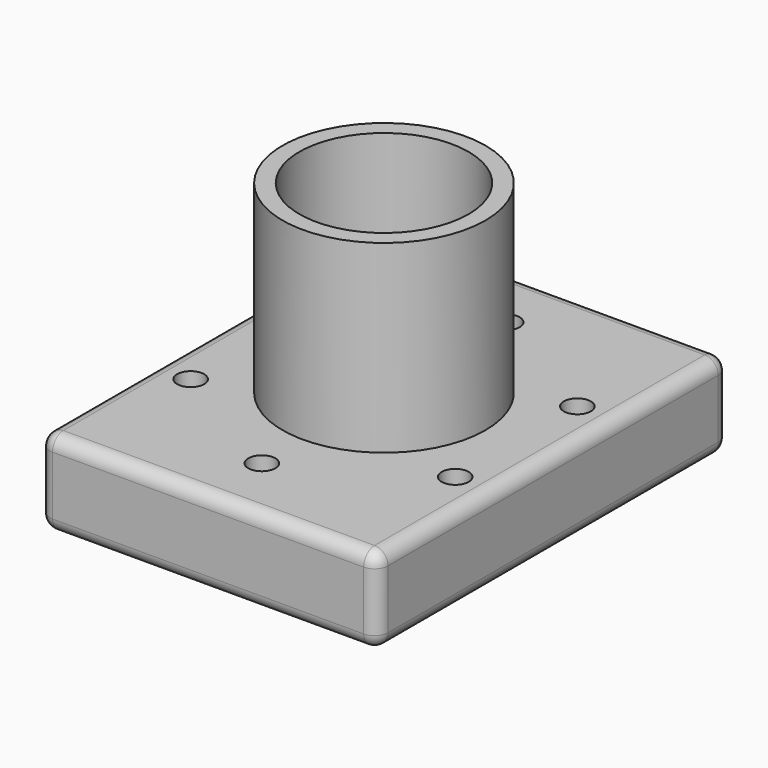
from build123d import *

# Parameters (mm, degrees)
F0_W     = 50
F0_H     = 65
F0_R     = 2
F0_R_2   = 15
F1_DEPTH = 12.7
F2_R     = 2
F0_R_3   = 12.5
F3_DEPTH = 40


with BuildPart() as f1:
    # F0 (on Top) → F1 (new body)
    with BuildSketch(Plane.XY):
        Rectangle(F0_W, F0_H)
        with Locations((-19.55572, -11.2905)):
            Circle(F0_R, mode=Mode.SUBTRACT)
        with Locations((0, -22.581)):
            Circle(F0_R, mode=Mode.SUBTRACT)
        with Locations((19.55572, -11.2905)):
            Circle(F0_R, mode=Mode.SUBTRACT)
        with Locations((-19.55572, 11.2905)):
            Circle(F0_R, mode=Mode.SUBTRACT)
        Circle(F0_R_2, mode=Mode.SUBTRACT)
        with Locations((19.55572, 11.2905)):
            Circle(F0_R, mode=Mode.SUBTRACT)
        with Locations((0, 22.581)):
            Circle(F0_R, mode=Mode.SUBTRACT)
    extrude(amount=F1_DEPTH)

    # F2
    f2_edges = [f1.edges().sort_by_distance(p)[0] for p in [
        (-25, 32.5, 6.35),
        (-25, -32.5, 6.35),
        (-25, 0, 0),
        (-25, 0, 12.7),
        (25, -32.5, 6.35),
        (0, -32.5, 0),
        (0, -32.5, 12.7),
        (25, 32.5, 6.35),
        (25, 0, 0),
        (25, 0, 12.7),
        (0, 32.5, 0),
        (0, 32.5, 12.7),
    ]]
    fillet(f2_edges, radius=F2_R)

    # F0 (on Top) → F3 (join)
    with BuildSketch(Plane.XY):
        Circle(F0_R_2)
        Circle(F0_R_3, mode=Mode.SUBTRACT)
    extrude(amount=F3_DEPTH)


solid = f1.part
